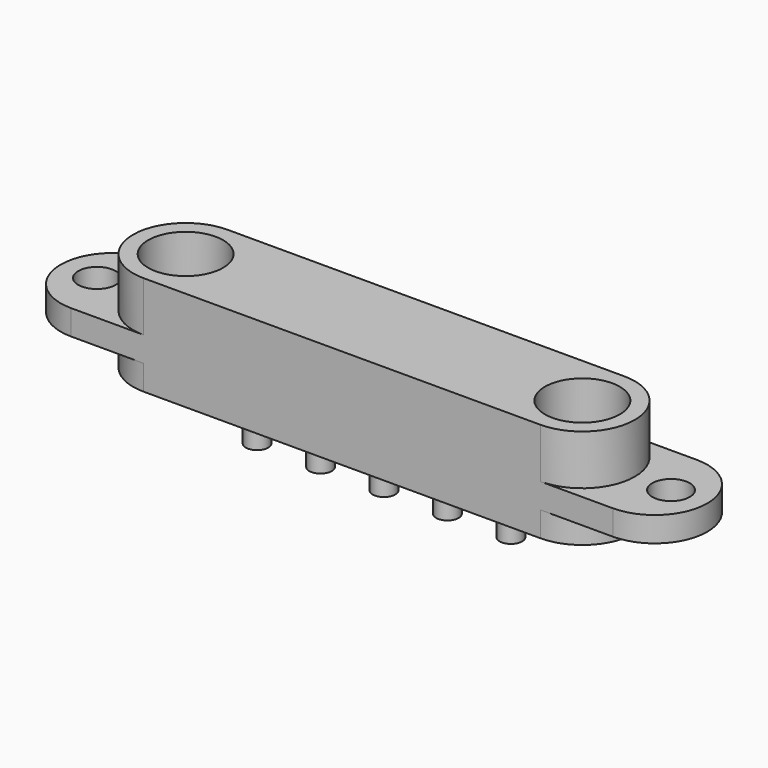
from build123d import *

# Parameters (mm, degrees)
SKETCH_R     = 0.75
PAD_DEPTH    = 1
SKETCH001_R  = 1.5
PAD001_DEPTH = 2
PAD002_DEPTH = 2
SKETCH003_R  = 0.45
PAD003_DEPTH = 3.75


with BuildPart() as part:
    # Sketch → Pad (new body)
    with BuildSketch(Plane.XY):
        with BuildLine():
            ThreePointArc((10.84, -2.1), (12.94, 0), (10.84, 2.1))
            Line((10.84, 2.1), (-10.84, 2.1))
            ThreePointArc((-10.84, 2.1), (-12.94, 0), (-10.84, -2.1))
            Line((10.84, -2.1), (-10.84, -2.1))
        make_face()
        with Locations((-11.49, 0)):
            Circle(SKETCH_R, mode=Mode.SUBTRACT)
        with Locations((11.49, 0)):
            Circle(SKETCH_R, mode=Mode.SUBTRACT)
    extrude(amount=-PAD_DEPTH)

    # Sketch001 → Pad001 (join)
    with BuildSketch(Plane.XY):
        with BuildLine():
            ThreePointArc((-7.94, 2.1), (-10.04, 0), (-7.94, -2.1))
            Line((-7.94, -2.1), (7.94, -2.1))
            ThreePointArc((7.94, -2.1), (10.04, 0), (7.94, 2.1))
            Line((-7.94, 2.1), (7.94, 2.1))
        make_face()
        with Locations((-7.94, 0)):
            Circle(SKETCH001_R, mode=Mode.SUBTRACT)
        with Locations((7.94, 0)):
            Circle(SKETCH001_R, mode=Mode.SUBTRACT)
    extrude(amount=PAD001_DEPTH)

    # Sketch002 → Pad002 (join)
    with BuildSketch(Plane.XY):
        with BuildLine():
            ThreePointArc((-7.939999, 2.1), (-10.039999, 0), (-7.939999, -2.1))
            Line((-7.939999, -2.1), (7.94, -2.1))
            ThreePointArc((7.94, -2.1), (10.04, 0), (7.94, 2.1))
            Line((-7.939999, 2.1), (7.94, 2.1))
        make_face()
    extrude(amount=-PAD002_DEPTH)

    # Sketch003 → Pad003 (join)
    with BuildSketch(Plane.XY):
        with Locations((-5.08, 0)):
            Circle(SKETCH003_R)
        with Locations((-2.54, 0)):
            Circle(SKETCH003_R)
        Circle(SKETCH003_R)
        with Locations((2.54, 0)):
            Circle(SKETCH003_R)
        with Locations((5.08, 0)):
            Circle(SKETCH003_R)
    extrude(amount=-PAD003_DEPTH)


solid = part.part
